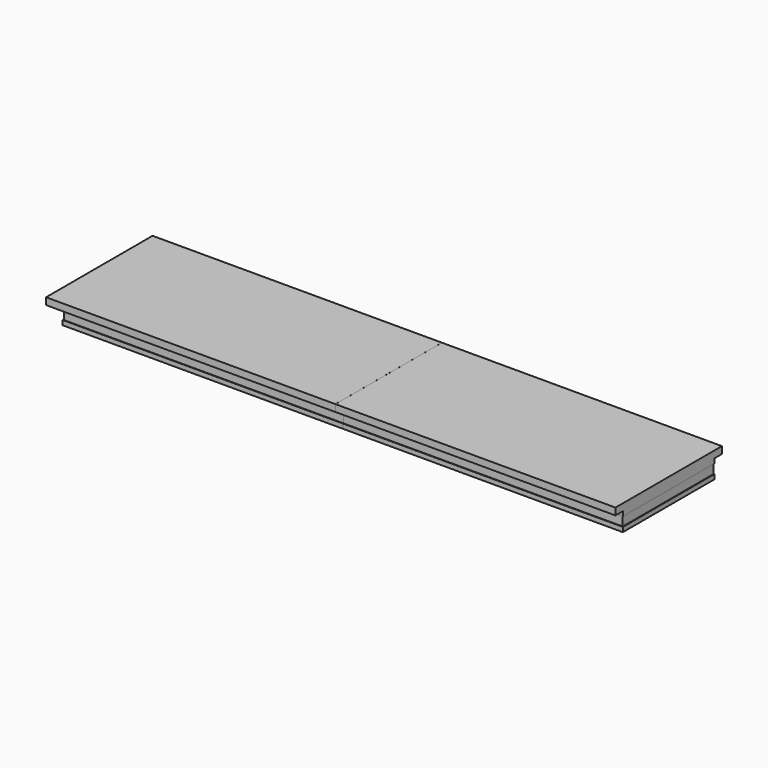
from build123d import *

# Parameters (mm, degrees)
F0_W     = 242
F0_H     = 49.5
F1_DEPTH = 2
F2_W     = 241.5
F2_H     = 49
F3_DEPTH = 4
F4_W     = 242
F4_H     = 49.5
F5_DEPTH = 2
F6_W     = 242
F6_H     = 4
F6_H_2   = 49.5
F7_DEPTH = 3
F8_W     = 0.01
F8_H     = 57.5
F9_DEPTH = 25


with BuildPart() as f1:
    # F0 (on Top) → F1 (new body)
    with BuildSketch(Plane.XY):
        Rectangle(F0_W, F0_H)
    extrude(amount=F1_DEPTH)

    # F2 (on face) → F3 (join)
    with BuildSketch(Plane.XY.offset(2)):
        Rectangle(F2_W, F2_H)
    extrude(amount=F3_DEPTH)

    # F4 (on face) → F5 (join)
    with BuildSketch(Plane.XY.offset(6)):
        Rectangle(F4_W, F4_H)
    extrude(amount=F5_DEPTH)

    # F6 (on face) → F7 (join)
    with BuildSketch(Plane.XY.offset(8)):
        with Locations((0, 26.75)):
            Rectangle(F6_W, F6_H)
        Polygon((-121, -24.75), (-121, 24.75), (-121, 28.75), (-125, 28.75), (-125, -28.75), (-121, -28.75), align=None)
        with Locations((0, -26.75)):
            Rectangle(F6_W, F6_H)
        Rectangle(F6_W, F6_H_2)
    extrude(amount=F7_DEPTH)

    # F8 (on face) → F9 (cut)
    with BuildSketch(Plane.XY.offset(11)):
        Rectangle(F8_W, F8_H)
    extrude(amount=-F9_DEPTH, mode=Mode.SUBTRACT)


solid = f1.part
